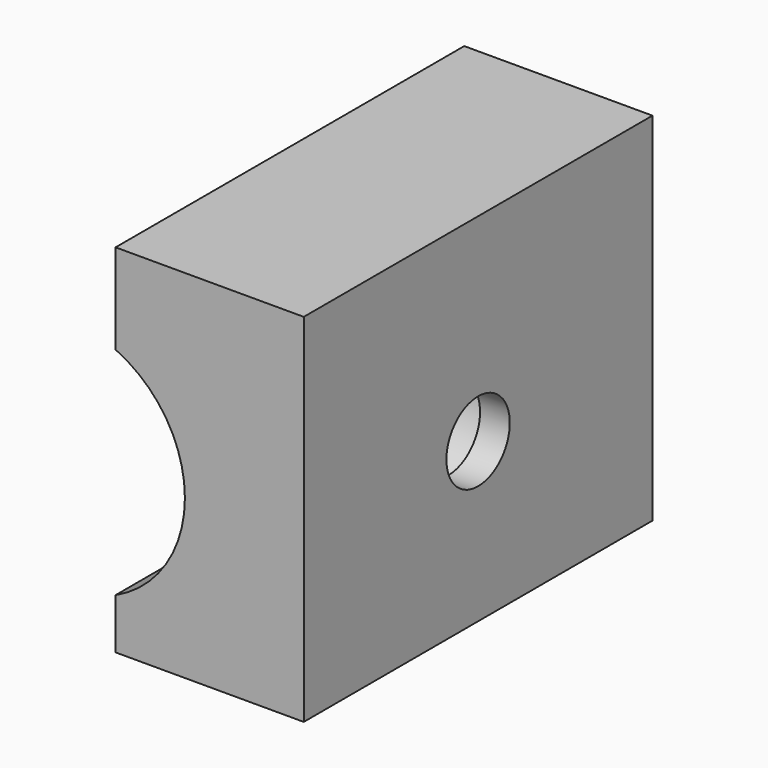
from build123d import *

# Parameters (mm, degrees)
F1_DEPTH = 22
F2_R     = 2
F3_DEPTH = 25
F5_R     = 3.5
F6_DEPTH = 8
F7_W     = 8
F7_H     = 22
F8_DEPTH = 25


with BuildPart() as f1:
    # F0 (on Front) → F1 (new body)
    with BuildSketch(Plane.XZ):
        with BuildLine():
            Line((0, 18), (-17.5, 18))
            Line((-17.5, 18), (-17.5, 13.4543560573))
            ThreePointArc((-17.5, 13.4543560573), (-14, 8), (-17.5, 2.5456439427))
            Line((-17.5, 2.5456439427), (-17.5, 0))
            Line((-17.5, 0), (0, 0))
            Line((0, 0), (0, 18))
        make_face()
    extrude(amount=F1_DEPTH)

    # F2 (on face) → F3 (cut)
    with BuildSketch(Plane(origin=(-17.5, 0, 0), x_dir=(0, -1, 0), z_dir=(-1, 0, 0))):
        with Locations((11, 8)):
            Circle(F2_R)
    extrude(amount=-F3_DEPTH, mode=Mode.SUBTRACT)

    # F5 (on face) → F6 (cut)
    with BuildSketch(Plane(origin=(-17.5, 0, 0), x_dir=(0, -1, 0), z_dir=(-1, 0, 0))):
        with Locations((11, 8)):
            Circle(F5_R)
    extrude(amount=-F6_DEPTH, mode=Mode.SUBTRACT)

    # F7 (on face) → F8 (cut)
    with BuildSketch(Plane.XY.offset(18)):
        with Locations((-4, -11)):
            Rectangle(F7_W, F7_H)
    extrude(amount=-F8_DEPTH, mode=Mode.SUBTRACT)


solid = f1.part
